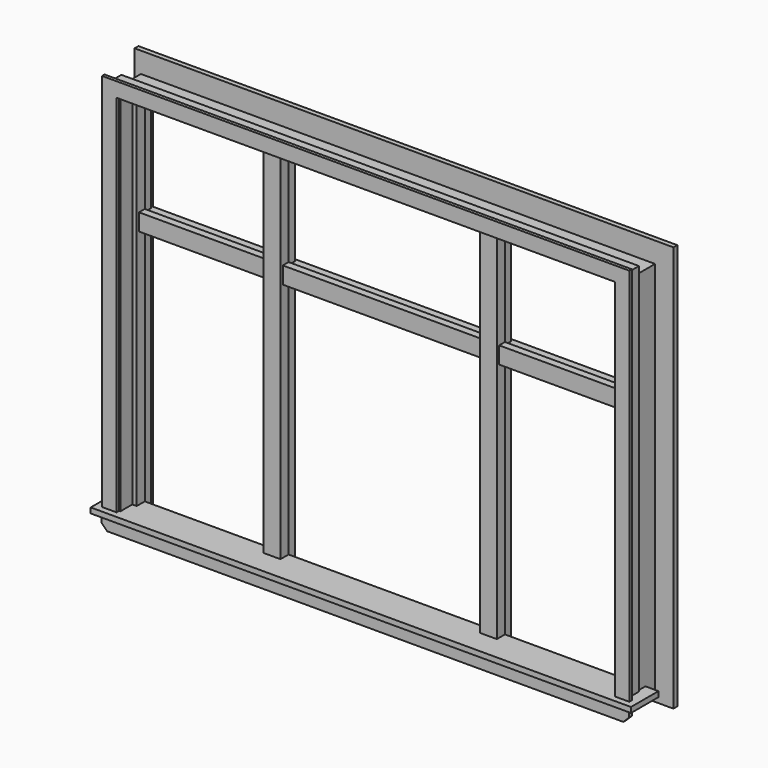
from build123d import *

# Parameters (mm, degrees)
F1_DEPTH  = 1485
F2_W      = 1063.5
F2_H      = 42
F3_DEPTH  = 33
F4_W      = 1117.5
F4_H      = 142
F5_DEPTH  = 22
F7_DEPTH  = 1063.5
F9_DEPTH  = 62
F11_DEPTH = 13
F14_DEPTH = 15
F16_DEPTH = 50
F17_W     = 42
F17_H     = 50
F18_DEPTH = 40
F21_DEPTH = 20


with BuildPart() as f1:
    # F0 (on Top) → F1 (new body)
    with BuildSketch(Plane.XY):
        Polygon((426.5, 50), (426.5, 0), (412.5, 0), (412.5, -42), (482.5, -42), (482.5, 0), (468.5, 0), (468.5, 50), align=None)
    extrude(amount=F1_DEPTH)



with BuildPart() as f1b:
    # F0 (on Top) → F1, piece 2 (new body)
    with BuildSketch(Plane.XY):
        Polygon((1021.5, 0), (1007.5, 0), (1007.5, -42), (1063.5, -42), (1063.5, 50), (1021.5, 50), align=None)
    extrude(amount=F1_DEPTH)


with BuildPart() as f1_1:
    add(f1.part)

    add(f1b.part)  # F3 merges F1b
    # F2 (on face) → F3 (join)
    with BuildSketch(Plane.XY.offset(1485)):
        with Locations((531.75, -21)):
            Rectangle(F2_W, F2_H)
    extrude(amount=F3_DEPTH)

    # F4 (on face) → F5 (join)
    with BuildSketch(Plane(origin=(0, 0, 0), x_dir=(1, 0, 0), z_dir=(0, 0, -1))):
        with Locations((558.75, 71)):
            Rectangle(F4_W, F4_H)
    extrude(amount=F5_DEPTH)

    # F6 (on face) → F7 (join, through all)
    with BuildSketch(Plane.YZ.offset(1063.5)):
        Polygon((0, 1065), (-30, 1065), (-30, 995), (0, 995), (0, 1007), (62, 1007), (62, 1043), (0, 1043), align=None)
    extrude(amount=-F7_DEPTH)

    # F8 (on face) → F9 (join)
    with BuildSketch(Plane.XZ.offset(42)):
        Polygon((1025.5, 1505), (1025.5, 0), (1070.5, 0), (1070.5, 1550), (0, 1550), (0, 1505), align=None)
    extrude(amount=F9_DEPTH)

    # F10 (on face) → F11 (join)
    with BuildSketch(Plane.XZ.offset(104)):
        Polygon((1030.5, 1510), (1030.5, 0), (1090.5, 0), (1090.5, 1570), (0, 1570), (0, 1510), align=None)
    extrude(amount=F11_DEPTH)

    # F13 (on offset) → F14 (join)
    with BuildSketch(Plane.XZ.offset(119)):
        Polygon((1090.5, -57), (1090.5, -22), (0, -22), (0, -80), (1067.5, -80), align=None)
    extrude(amount=-F14_DEPTH)

    # F15 (on face) → F16 (join, through all)
    with BuildSketch(Plane(origin=(0, 0, 0), x_dir=(-1, 0, 0), z_dir=(0, 1, 0))):
        Polygon((-1063.5, 1518), (-1063.5, 1485), (-1021.5, 1485), (-1021.5, 1495), (-468.5, 1495), (-468.5, 1485), (-426.5, 1485), (-426.5, 1495), (0, 1495), (0, 1518), align=None)
    extrude(amount=F16_DEPTH)

    # F17 (on face) → F18 (join)
    with BuildSketch(Plane(origin=(0, 0, 0), x_dir=(1, 0, 0), z_dir=(0, 0, -1))):
        with Locations((447.5, -25)):
            Rectangle(F17_W, F17_H)
        with Locations((1042.5, -25)):
            Rectangle(F17_W, F17_H)
    extrude(amount=F18_DEPTH)

    # F19: F1 across plane


with BuildPart() as f1_2:
    add(f1_1.part)
    add(f1_1.part.mirror(Plane.YZ))


with BuildPart() as f21:
    # F20 (on face) → F21 (new body)
    with BuildSketch(Plane(origin=(0, 50, 0), x_dir=(-1, 0, 0), z_dir=(0, 1, 0))):
        Polygon((-1029.5, -77), (-1029.5, 1503), (1029.5, 1503), (1029.5, -77), (1089.5, -77), (1089.5, 1603), (-1139.5, 1603), (-1139.5, -77), align=None)
    extrude(amount=F21_DEPTH)


solid = Compound([f1_2.part, f21.part])
